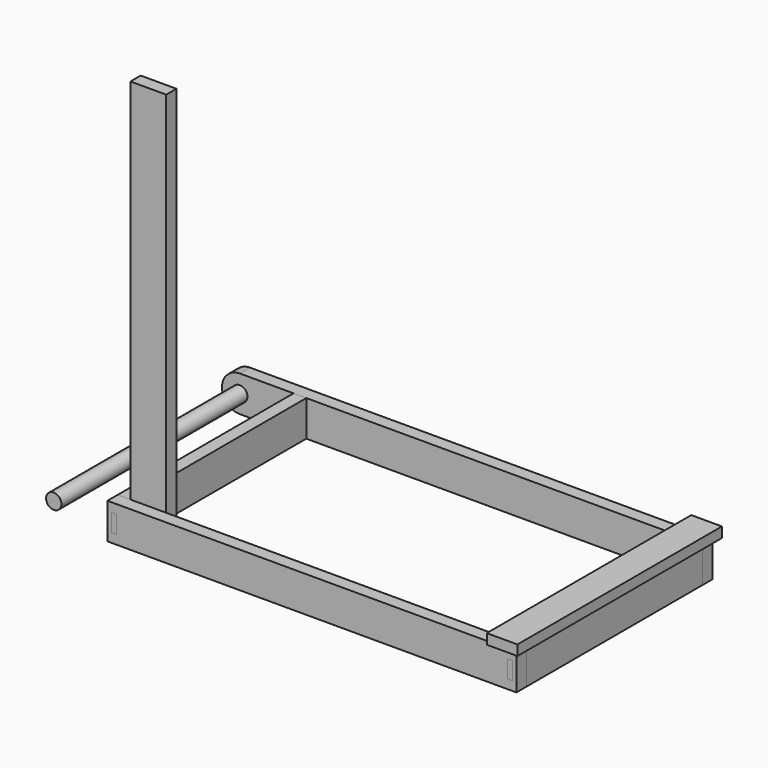
from build123d import *

# Parameters (mm, degrees)
F0_W          = 31.75
F0_H          = 31.75
F0_W_2        = 952.5
F1_DEPTH      = 88.9
F2_W          = 12.7
F2_H          = 44.45
F3_DEPTH      = 31.75
F0_H_2        = 546.1
F5_DEPTH      = 88.9
F8_W          = 88.9
F8_H          = 31.75
F9_DEPTH      = 914.4
F9_DEPTH_BACK = 88.9
F10_W         = 31.75
F10_H         = 88.9
F11_DEPTH     = 177.8
F12_R         = 19.05
F13_DEPTH     = 31.75
F14_DEPTH     = 609.6
F15_W         = 76.2
F15_H         = 635
F16_DEPTH     = 25.4


with BuildPart() as f1:
    # F0 (on Top) → F1 (new body)
    with BuildSketch(Plane.XY):
        with Locations((-492.125, -288.925)):
            Rectangle(F0_W, F0_H)
        with Locations((0, -288.925)):
            Rectangle(F0_W_2, F0_H)
        with Locations((492.125, -288.925)):
            Rectangle(F0_W, F0_H)
    extrude(amount=-F1_DEPTH)

    # F2 (on face) → F3 (cut, through all)
    with BuildSketch(Plane(origin=(0, -273.05, 0), x_dir=(-1, 0, 0), z_dir=(0, 1, 0))):
        with Locations((-492.125, -44.45)):
            Rectangle(F2_W, F2_H)
        with Locations((492.125, -44.45)):
            Rectangle(F2_W, F2_H)
    extrude(amount=-F3_DEPTH, mode=Mode.SUBTRACT)


with BuildPart() as f4_1:
    # F4: instance of F1
    add(f1.part.mirror(Plane.XZ))


with BuildPart() as f5:
    # F0 (on Top) → F5 (new body, through all)
    with BuildSketch(Plane.XY):
        with Locations((492.125, 288.925)):
            Rectangle(F0_W, F0_H)
        with Locations((492.125, 0)):
            Rectangle(F0_W, F0_H_2)
        with Locations((492.125, -288.925)):
            Rectangle(F0_W, F0_H)
    extrude(amount=-F5_DEPTH)

    # F6: cut F1, F4_1
    add(f1.part, mode=Mode.SUBTRACT)
    add(f4_1.part, mode=Mode.SUBTRACT)


with BuildPart() as f7_1:
    # F7: instance of F5
    add(f5.part.mirror(Plane.YZ))


with BuildPart() as f9:
    # F8 (on face) → F9 (new body, two sides)
    with BuildSketch(Plane.XY) as f9_sk:
        with Locations((-431.8, -257.175)):
            Rectangle(F8_W, F8_H)
    extrude(amount=F9_DEPTH)
    extrude(f9_sk.sketch, amount=-F9_DEPTH_BACK)


with BuildPart() as f4_1_1:
    add(f4_1.part)

    # F10 (on face) → F11 (join)
    with BuildSketch(Plane(origin=(-508, 0, 0), x_dir=(0, -1, 0), z_dir=(-1, 0, 0))):
        with Locations((-288.925, -44.45)):
            Rectangle(F10_W, F10_H)
    extrude(amount=F11_DEPTH)

    # F12 (on face) → F13 (cut, through all)
    with BuildSketch(Plane(origin=(0, 304.8, 0), x_dir=(-1, 0, 0), z_dir=(0, 1, 0))):
        with BuildLine():
            Line((641.35, -88.9), (685.8, -88.9))
            Line((685.8, -88.9), (685.8, -44.45))
            ThreePointArc((685.8, -44.45), (672.7808964237, -75.8808964237), (641.35, -88.9))
        make_face()
        with BuildLine():
            ThreePointArc((641.35, 0), (672.7808964237, -13.0191035763), (685.8, -44.45))
            Line((685.8, -44.45), (685.8, 0))
            Line((685.8, 0), (641.35, 0))
        make_face()
        with Locations((641.35, -44.45)):
            Circle(F12_R)
    extrude(amount=-F13_DEPTH, mode=Mode.SUBTRACT)


with BuildPart() as f14:
    # F12 (on face) → F14 (new body, through all)
    with BuildSketch(Plane(origin=(0, 304.8, 0), x_dir=(-1, 0, 0), z_dir=(0, 1, 0))):
        with Locations((641.35, -44.45)):
            Circle(F12_R)
    extrude(amount=-F14_DEPTH)


with BuildPart() as f16:
    # F15 (on Top) → F16 (new body)
    with BuildSketch(Plane.XY):
        with Locations((482.6, 0)):
            Rectangle(F15_W, F15_H)
    extrude(amount=F16_DEPTH)


solid = Compound([f1.part, f5.part, f7_1.part, f9.part, f4_1_1.part, f14.part, f16.part])
